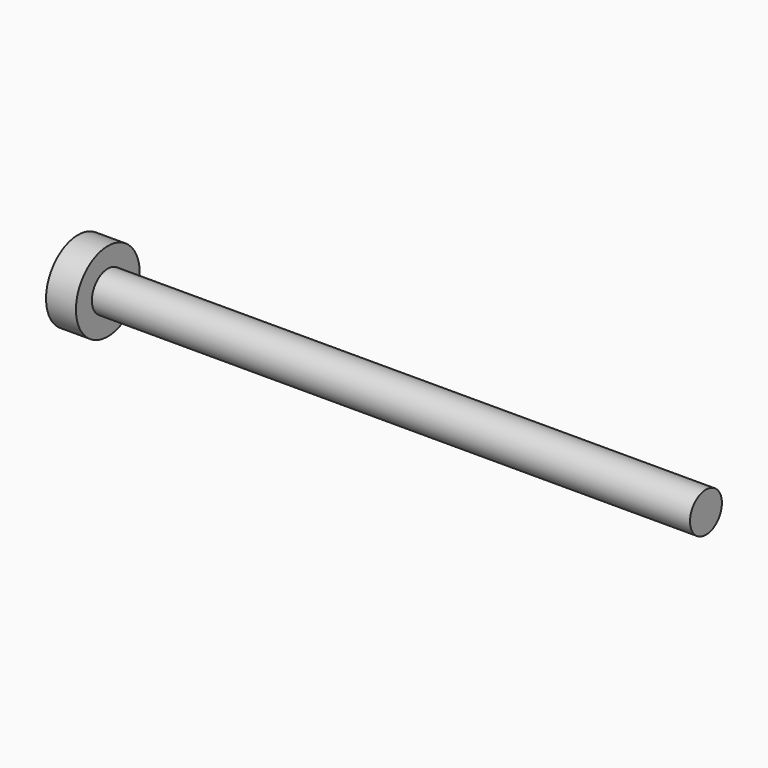
from build123d import *

# Parameters (mm, degrees)
F0_R     = 10
F1_DEPTH = 300
F2_R     = 20
F3_DEPTH = 15


with BuildPart() as f1:
    # F0 (on Right) → F1 (new body)
    with BuildSketch(Plane.YZ):
        Circle(F0_R)
    extrude(amount=F1_DEPTH)

    # F2 (on Right) → F3 (join)
    with BuildSketch(Plane.YZ):
        Circle(F2_R)
    extrude(amount=-F3_DEPTH)


solid = f1.part
